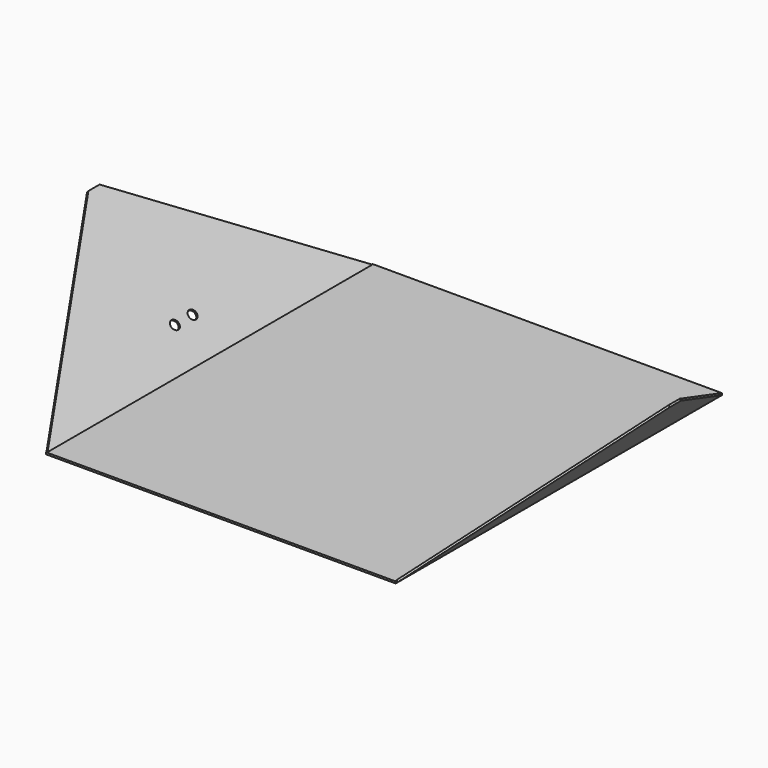
from build123d import *

# Parameters (mm, degrees)
SKETCH003_W  = 300
SKETCH003_H  = 350
PAD003_DEPTH = 1.6
PAD004_DEPTH = 1.6
SKETCH005_R  = 4
POCKET_DEPTH = 348.954325


with BuildPart() as part:
    # Sketch003 → Pad003 (new body)
    with BuildSketch(Plane.XY):
        Rectangle(SKETCH003_W, SKETCH003_H)
    extrude(amount=PAD003_DEPTH)

    with BuildSketch(Plane(origin=(-150, 0, 0), x_dir=(0.717792, 0, -0.696258), z_dir=(0.696258, 0, 0.717792))):
        Polygon((0, -175), (0, 175), (-139.316187, 6), (-139.316187, -6), align=None)
    pad004 = extrude(amount=PAD004_DEPTH)

    # Mirrored001: Pad004 across YZ
    add(pad004.mirror(Plane.YZ))

    with BuildSketch(Plane(origin=(-150, 0, 0), x_dir=(0.717792, 0, -0.696258), z_dir=(0.696258, 0, 0.717792))):
        with Locations((-32, 9.5)):
            Circle(SKETCH005_R)
        with Locations((-32, -9.5)):
            Circle(SKETCH005_R)
    extrude(amount=POCKET_DEPTH, mode=Mode.SUBTRACT)


with BuildPart() as part_1:
    # Body002 placement: moved
    add(part.part.moved(Location((0, 0, -100))))


solid = part_1.part
